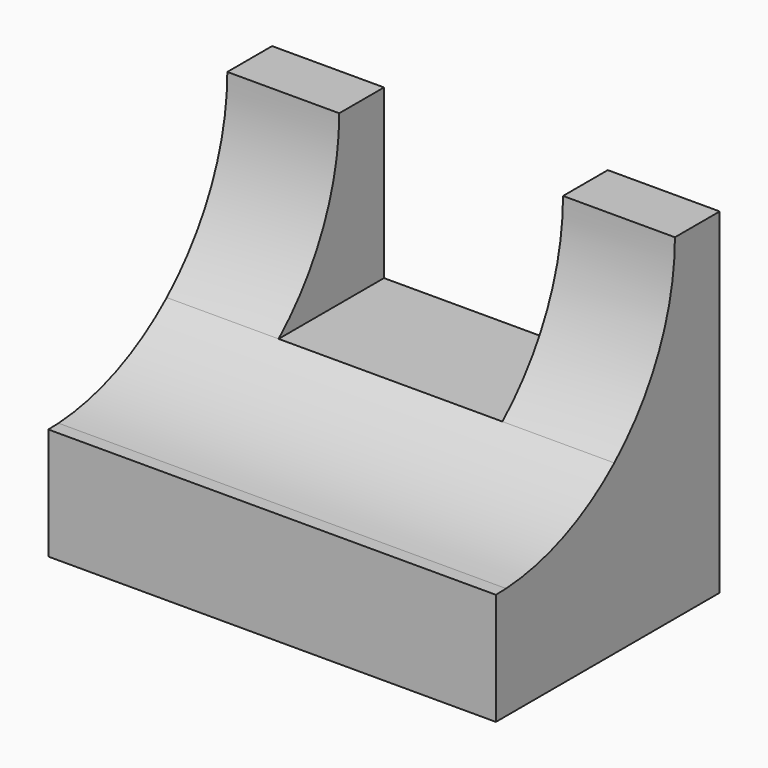
from build123d import *

# Parameters (mm, degrees)
F0_W     = 50.8
F0_H     = 38.1
F1_DEPTH = 31.75
F3_DEPTH = 254
F4_W     = 25.4
F4_H     = 19.05
F5_DEPTH = 25.4


with BuildPart() as f1:
    # F0 (on Front) → F1 (new body)
    with BuildSketch(Plane.XZ):
        with Locations((14.420407, 5.444671)):
            Rectangle(F0_W, F0_H)
    extrude(amount=F1_DEPTH)

    # F2 (on face) → F3 (cut)
    with BuildSketch(Plane.YZ.offset(39.820407)):
        with BuildLine():
            ThreePointArc((-30.30265, -0.864059), (-22.096181, 1.000761), (-14.949479, 5.444671))
            ThreePointArc((-14.949479, 5.444671), (-8.599479, 14.04415), (-6.35, 24.494671))
            Line((-6.35, 24.494671), (-31.75, 24.494671))
            Line((-31.75, 24.494671), (-31.75, -0.905329))
            Line((-31.75, -0.905329), (-30.30265, -0.864059))
        make_face()
    extrude(amount=-F3_DEPTH, mode=Mode.SUBTRACT)

    # F4 (on face) → F5 (cut)
    with BuildSketch(Plane(origin=(0, 0, 0), x_dir=(-1, 0, 0), z_dir=(0, 1, 0))):
        with Locations((-14.420407, 14.969671)):
            Rectangle(F4_W, F4_H)
    extrude(amount=-F5_DEPTH, mode=Mode.SUBTRACT)


solid = f1.part
